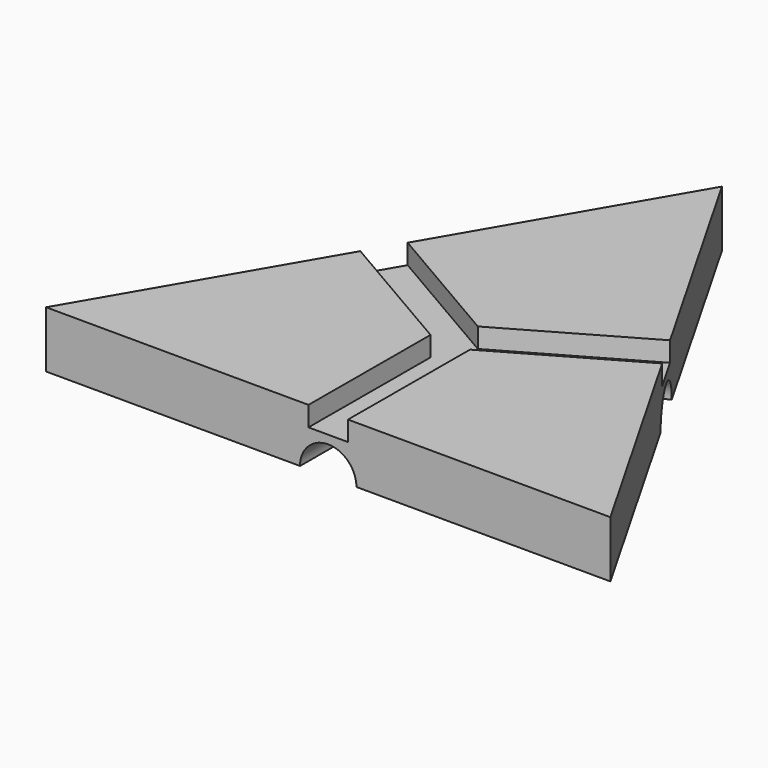
from build123d import *

# Parameters (mm, degrees)
F1_DEPTH  = 10
F3_DEPTH  = 29
F5_DEPTH  = 29
F7_DEPTH  = 29
F8_W      = 7
F8_H      = 3.5
F9_DEPTH  = 29
F10_W     = 7
F10_H     = 3.5
F11_DEPTH = 29
F12_W     = 7
F12_H     = 3.5
F13_DEPTH = 29


with BuildPart() as f1:
    # F0 (on Top) → F1 (new body)
    with BuildSketch(Plane.XY):
        Polygon((49.9008693401, -29.0385359899), (0.1976751859, 57.7346885144), (-50.098544526, -28.6961525245), align=None)
    extrude(amount=F1_DEPTH)

    # F2 (on face) → F3 (cut)
    with BuildSketch(Plane(origin=(-0.0988375929, -28.8673442572, 0), x_dir=(0.9999941387, -0.0034238347, 0), z_dir=(-0.0034238347, -0.9999941387, 0))):
        with BuildLine():
            Line((-5, 0), (5, 0))
            ThreePointArc((5, 0), (0, 5), (-5, 0))
        make_face()
    extrude(amount=-F3_DEPTH, mode=Mode.SUBTRACT)

    # F4 (on face) → F5 (cut)
    with BuildSketch(Plane(origin=(-24.9504346701, 14.5192679949, 0), x_dir=(-0.5029621971, -0.8643084104, 0), z_dir=(-0.8643084104, 0.5029621971, 0))):
        with BuildLine():
            Line((-5, 0), (5, 0))
            ThreePointArc((5, 0), (0, 5), (-5, 0))
        make_face()
    extrude(amount=-F5_DEPTH, mode=Mode.SUBTRACT)

    # F6 (on face) → F7 (cut)
    with BuildSketch(Plane(origin=(25.049272263, 14.3480762623, 0), x_dir=(-0.4970319415, 0.867732245, 0), z_dir=(0.867732245, 0.4970319415, 0))):
        with BuildLine():
            Line((-5, 0), (5, 0))
            ThreePointArc((5, 0), (0, 5), (-5, 0))
        make_face()
    extrude(amount=-F7_DEPTH, mode=Mode.SUBTRACT)

    # F8 (on face) → F9 (cut)
    with BuildSketch(Plane(origin=(25.049272263, 14.3480762623, 0), x_dir=(-0.4970319415, 0.867732245, 0), z_dir=(0.867732245, 0.4970319415, 0))):
        with Locations((0, 8.25)):
            Rectangle(F8_W, F8_H)
    extrude(amount=-F9_DEPTH, mode=Mode.SUBTRACT)

    # F10 (on face) → F11 (cut)
    with BuildSketch(Plane(origin=(-24.9504346701, 14.5192679949, 0), x_dir=(-0.5029621971, -0.8643084104, 0), z_dir=(-0.8643084104, 0.5029621971, 0))):
        with Locations((0, 8.25)):
            Rectangle(F10_W, F10_H)
    extrude(amount=-F11_DEPTH, mode=Mode.SUBTRACT)

    # F12 (on face) → F13 (cut)
    with BuildSketch(Plane(origin=(-0.0988375929, -28.8673442572, 0), x_dir=(0.9999941387, -0.0034238347, 0), z_dir=(-0.0034238347, -0.9999941387, 0))):
        with Locations((0, 8.25)):
            Rectangle(F12_W, F12_H)
    extrude(amount=-F13_DEPTH, mode=Mode.SUBTRACT)


solid = f1.part
